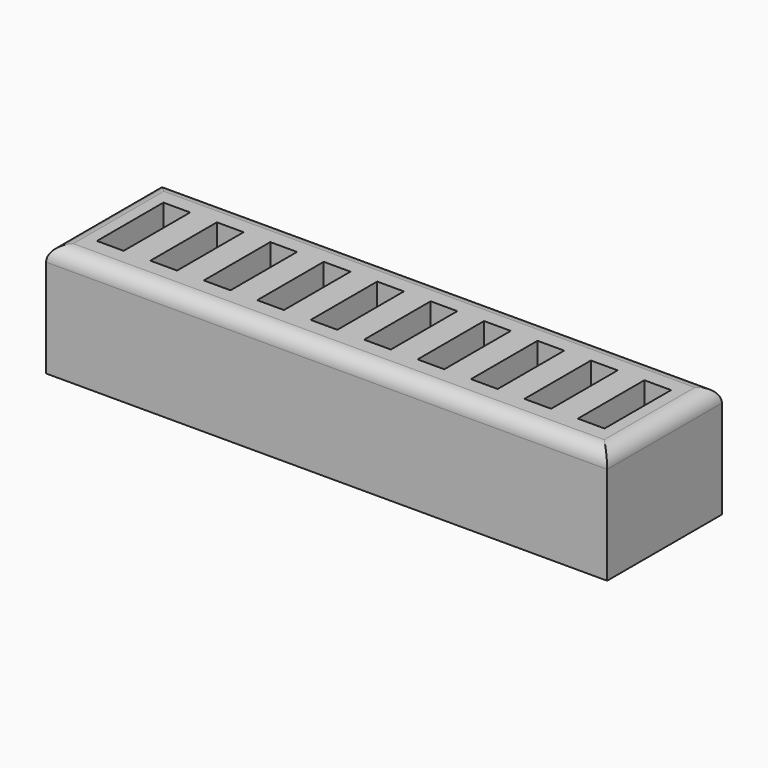
from build123d import *

# Parameters (mm, degrees)
F0_W     = 4.5000037
F0_H     = 13.9999974
F0_W_2   = 4.499991
F0_H_2   = 5.08
F0_W_3   = 4.5000164
F1_DEPTH = 12.7
F2_W     = 94.500065
F2_H     = 24.1599974
F3_DEPTH = 6.35
F4_R     = 2.54


with BuildPart() as f1:
    # F0 (on Top) → F1 (new body)
    with BuildSketch(Plane.XY):
        Polygon((-64.6874586299, 19.0799974), (-60.1874549299, 19.0799974), (-60.1874549299, 24.1599974), (-69.1874623299, 24.1599974), (-69.1874623299, 19.0799974), align=None)
        with Locations((-66.9374604799, 12.0799987)):
            Rectangle(F0_W, F0_H)
        Polygon((-69.1874623299, 0), (-60.1874549299, 0), (-60.1874549299, 5.08), (-64.6874586299, 5.08), (-69.1874623299, 5.08), align=None)
        Polygon((-60.1874549299, 0), (-51.1874475299, 0), (-51.1874475299, 5.08), (-55.6874512299, 5.08), (-60.1874549299, 5.08), align=None)
        with Locations((-57.9374530799, 12.0799987)):
            Rectangle(F0_W, F0_H)
        Polygon((-55.6874512299, 19.0799974), (-51.1874475299, 19.0799974), (-51.1874475299, 24.1599974), (-60.1874549299, 24.1599974), (-60.1874549299, 19.0799974), align=None)
        Polygon((-46.6874438299, 19.0799974), (-42.1874401299, 19.0799974), (-42.1874401299, 24.1599974), (-51.1874475299, 24.1599974), (-51.1874475299, 19.0799974), align=None)
        with Locations((-48.9374456799, 12.0799987)):
            Rectangle(F0_W, F0_H)
        Polygon((-51.1874475299, 0), (-42.1874401299, 0), (-42.1874401299, 5.08), (-46.6874438299, 5.08), (-51.1874475299, 5.08), align=None)
        Polygon((-42.1874401299, 0), (-33.1874327299, 0), (-33.1874327299, 5.08), (-37.6874364299, 5.08), (-42.1874401299, 5.08), align=None)
        with Locations((-39.9374382799, 12.0799987)):
            Rectangle(F0_W, F0_H)
        Polygon((-37.6874364299, 19.0799974), (-33.1874327299, 19.0799974), (-33.1874327299, 24.1599974), (-42.1874401299, 24.1599974), (-42.1874401299, 19.0799974), align=None)
        Polygon((-28.6874290299, 19.0799974), (-24.1874253299, 19.0799974), (-24.1874253299, 24.1599974), (-33.1874327299, 24.1599974), (-33.1874327299, 19.0799974), align=None)
        with Locations((-30.9374308799, 12.0799987)):
            Rectangle(F0_W, F0_H)
        Polygon((-33.1874327299, 0), (-24.1874253299, 0), (-24.1874253299, 5.08), (-28.6874290299, 5.08), (-33.1874327299, 5.08), align=None)
        with Locations((-21.9374298299, 12.0799987)):
            Rectangle(F0_W_2, F0_H)
        with Locations((-21.9374298299, 2.54)):
            Rectangle(F0_W_2, F0_H_2)
        with Locations((-17.4374261299, 2.54)):
            Rectangle(F0_W_3, F0_H_2)
        Polygon((-24.1874253299, 24.1599974), (-24.1874253299, 19.0799974), (-19.6874343299, 19.0799974), (-15.1874179299, 19.0799974), (-15.1874179299, 24.1599974), align=None)
        Polygon((-15.1874179299, 5.08), (-15.1874179299, 0), (-6.1874105299, 0), (-6.1874105299, 5.08), (-10.6874142299, 5.08), align=None)
        with Locations((-12.9374160799, 12.0799987)):
            Rectangle(F0_W, F0_H)
        Polygon((-15.1874179299, 24.1599974), (-15.1874179299, 19.0799974), (-10.6874142299, 19.0799974), (-6.1874105299, 19.0799974), (-6.1874105299, 24.1599974), align=None)
        Polygon((-6.1874105299, 24.1599974), (-6.1874105299, 19.0799974), (-1.6874068299, 19.0799974), (2.8125968701, 19.0799974), (2.8125968701, 24.1599974), align=None)
        with Locations((-3.9374086799, 12.0799987)):
            Rectangle(F0_W, F0_H)
        Polygon((-6.1874105299, 5.08), (-6.1874105299, 0), (2.8125968701, 0), (2.8125968701, 5.08), (-1.6874068299, 5.08), align=None)
        Polygon((2.8125968701, 5.08), (2.8125968701, 0), (11.8126042701, 0), (11.8126042701, 5.08), (7.3126005701, 5.08), align=None)
        with Locations((5.0625987201, 12.0799987)):
            Rectangle(F0_W, F0_H)
        Polygon((2.8125968701, 24.1599974), (2.8125968701, 19.0799974), (7.3126005701, 19.0799974), (11.8126042701, 19.0799974), (11.8126042701, 24.1599974), align=None)
        Polygon((11.8126042701, 24.1599974), (11.8126042701, 19.0799974), (16.3126079701, 19.0799974), (20.8126116701, 19.0799974), (20.8126116701, 24.1599974), align=None)
        with Locations((14.0626061201, 12.0799987)):
            Rectangle(F0_W, F0_H)
        Polygon((11.8126042701, 5.08), (11.8126042701, 0), (20.8126116701, 0), (20.8126116701, 5.08), (16.3126079701, 5.08), align=None)
        Polygon((20.8126116701, 5.08), (20.8126116701, 0), (25.3126026701, 0), (25.3126026701, 24.1599974), (20.8126116701, 24.1599974), (20.8126116701, 19.0799974), align=None)
    extrude(amount=F1_DEPTH)

    # F2 (on face) → F3 (join)
    with BuildSketch(Plane(origin=(0, 0, 0), x_dir=(1, 0, 0), z_dir=(0, 0, -1))):
        with Locations((-21.9374298299, -12.0799987)):
            Rectangle(F2_W, F2_H)
    extrude(amount=F3_DEPTH)

    # F4
    f4_edges = [f1.edges().sort_by_distance(p)[0] for p in [
        (-21.93743, 24.159997, 12.7),
        (-21.93743, 0, 12.7),
        (-69.187462, 12.079999, 12.7),
        (25.312603, 12.079999, 12.7),
    ]]
    fillet(f4_edges, radius=F4_R)


solid = f1.part
